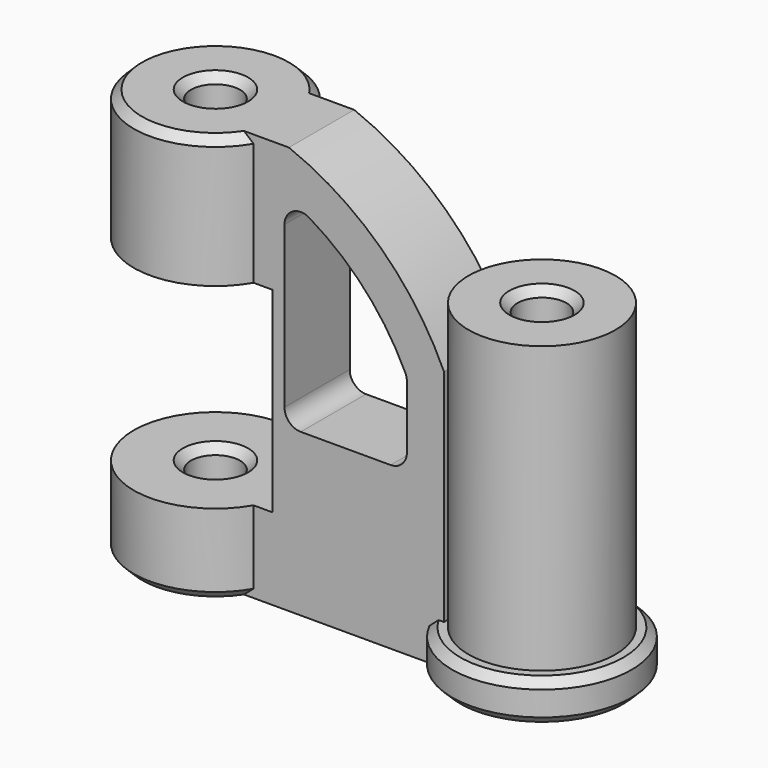
from build123d import *

# Parameters (mm, degrees)
F0_R      = 25.4
F0_R_2    = 7.62
F1_DEPTH  = 127
F0_R_3    = 22.86
F2_DEPTH  = 101.6
F4_DEPTH  = 12.7
F5_W      = 60.96
F5_H      = 60.96
F6_DEPTH  = 50.8
F7_R      = 5.08
F8_SIZE   = 2.54
F9_R      = 27.94
F9_R_2    = 22.86
F10_DEPTH = 12.7
F11_SIZE  = 5.08
F12_SIZE  = 2.54
F13_SIZE  = 2.54
F14_SIZE  = 2.54


with BuildPart() as f1:
    # F0 (on Top) → F1 (new body)
    with BuildSketch(Plane.XY):
        Circle(F0_R)
        Circle(F0_R_2, mode=Mode.SUBTRACT)
    extrude(amount=F1_DEPTH)



with BuildPart() as f2:
    # F0 (on Top) → F2 (new body)
    with BuildSketch(Plane.XY):
        with Locations((101.6, 0)):
            Circle(F0_R_3)
        with Locations((101.6, 0)):
            Circle(F0_R_2, mode=Mode.SUBTRACT)
    extrude(amount=F2_DEPTH)


with BuildPart() as f1_1:
    add(f1.part)

    add(f2.part)  # F4 merges F2
    # F3 (on Front) → F4 (join, symmetric)
    with BuildSketch(Plane.XZ):
        with BuildLine():
            Line((20.32, 127), (20.32, 0))
            Line((20.32, 0), (81.28, 0))
            Line((81.28, 0), (81.28, 81.28))
            ThreePointArc((81.28, 81.28), (61.5844056789, 108.82076155), (33.02, 127))
            Line((33.02, 127), (20.32, 127))
        make_face()
        with BuildLine():
            ThreePointArc((31.63198664, 113.8086976228), (54.1219978961, 98.3677847047), (69.73198664, 75.9947954215))
            Line((69.73198664, 75.9947954215), (69.73198664, 50.3086976228))
            Line((69.73198664, 50.3086976228), (31.63198664, 50.3086976228))
            Line((31.63198664, 50.3086976228), (31.63198664, 113.8086976228))
        make_face(mode=Mode.SUBTRACT)
    extrude(amount=F4_DEPTH, both=True)

    # F5 (on Front) → F6 (cut, symmetric)
    with BuildSketch(Plane.XZ):
        with Locations((-2.54, 55.88)):
            Rectangle(F5_W, F5_H)
    extrude(amount=F6_DEPTH, both=True, mode=Mode.SUBTRACT)

    # F7
    f7_edges = [f1_1.edges().sort_by_distance(p)[0] for p in [
        (31.631987, 0, 50.308698),
        (31.631987, 0, 113.808698),
        (69.731987, 0, 50.308698),
        (69.731987, 0, 75.994795),
    ]]
    fillet(f7_edges, radius=F7_R)

    # F8
    f8_edges = [f1_1.edges().sort_by_distance(p)[0] for p in [
        (-25.4, 0, 127),
        (-25.4, 0, 0),
        (-7.62, 0, 86.36),
        (-7.62, 0, 25.4),
    ]]
    chamfer(f8_edges, length=F8_SIZE)

    # F9 (on Top) → F10 (join)
    with BuildSketch(Plane.XY):
        with Locations((101.6, 0)):
            Circle(F9_R)
        with Locations((101.6, 0)):
            Circle(F9_R_2, mode=Mode.SUBTRACT)
    extrude(amount=F10_DEPTH)

    # F11
    f11_edges = [f1_1.edges().sort_by_distance(p)[0] for p in [
        (93.98, 0, 0),
    ]]
    chamfer(f11_edges, length=F11_SIZE)

    # F12
    f12_edges = [f1_1.edges().sort_by_distance(p)[0] for p in [
        (93.98, 0, 101.6),
    ]]
    chamfer(f12_edges, length=F12_SIZE)

    # F13
    f13_edges = [f1_1.edges().sort_by_distance(p)[0] for p in [
        (129.54, 0, 12.7),
        (129.54, 0, 0),
    ]]
    chamfer(f13_edges, length=F13_SIZE)

    # F14
    f14_edges = [f1_1.edges().sort_by_distance(p)[0] for p in [
        (-7.62, 0, 127),
    ]]
    chamfer(f14_edges, length=F14_SIZE)


solid = f1_1.part
